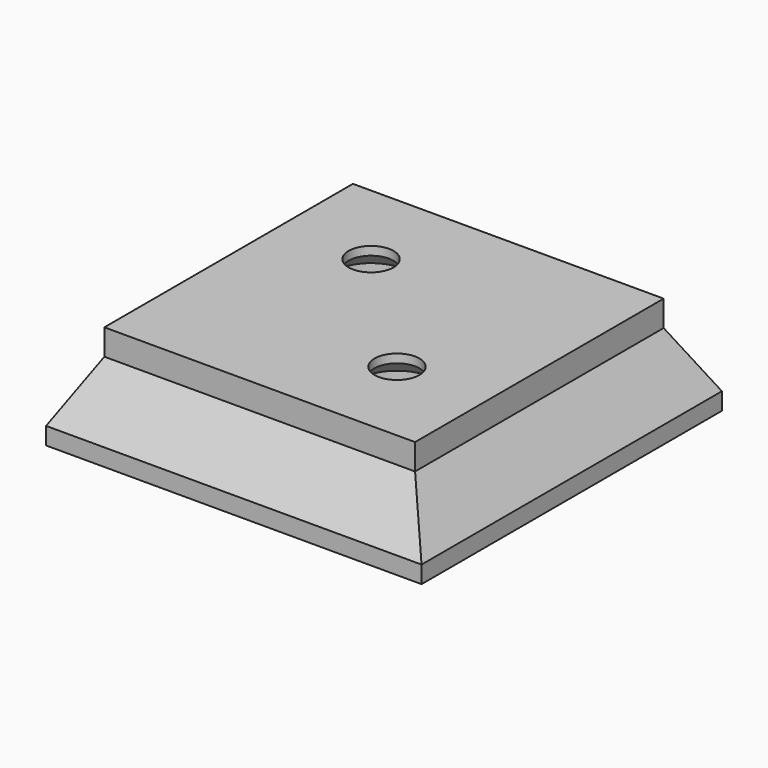
from build123d import *

# Parameters (mm, degrees)
SKETCH021_W     = 36
SKETCH021_H     = 36
PAD006_DEPTH    = 3
SKETCH022_W     = 43.5
SKETCH022_H     = 43.5
PAD007_DEPTH    = 8.75
POCKET014_DEPTH = 100
POCKET015_DEPTH = 100
SKETCH025_W     = 28
SKETCH025_H     = 28
POCKET016_DEPTH = 7.75
SKETCH026_R     = 4.5
POCKET017_DEPTH = 3
SKETCH030_R     = 2.6
POCKET021_DEPTH = 5
CHAMFER003_SIZE = 1.75


with BuildPart() as part:
    # Sketch021 (on Face1 of ShapeBinder003) → Pad006 (new body)
    with BuildSketch(Plane(origin=(0, 0, 0), x_dir=(1, 0, 0), z_dir=(0, 0, -1))):
        with Locations((124, -211)):
            Rectangle(SKETCH021_W, SKETCH021_H)
    extrude(amount=PAD006_DEPTH)

    # Sketch022 (on Face6 of Pad006) → Pad007 (join)
    with BuildSketch(Plane(origin=(0, 0, -3), x_dir=(1, 0, 0), z_dir=(0, 0, -1))):
        with Locations((124, -211)):
            Rectangle(SKETCH022_W, SKETCH022_H)
    extrude(amount=PAD007_DEPTH)

    # Sketch023 (on Face1 of Pad007) → Pocket014 (cut)
    with BuildSketch(Plane.XZ.offset(-189.25)):
        Polygon((106, -3), (102.25, -9.75), (102.25, -3), align=None)
        Polygon((142, -3), (145.75, -9.75), (145.75, -3), align=None)
    extrude(amount=-POCKET014_DEPTH, mode=Mode.SUBTRACT)

    # Sketch024 (on Face7 of Pocket014) → Pocket015 (cut)
    with BuildSketch(Plane(origin=(102.25, 0, 0), x_dir=(0, -1, 0), z_dir=(-1, 0, 0))):
        Polygon((-229, -3), (-232.75, -9.75), (-232.75, -3), align=None)
        Polygon((-193, -3), (-189.25, -3), (-189.25, -9.75), align=None)
    extrude(amount=-POCKET015_DEPTH, mode=Mode.SUBTRACT)

    # Sketch025 (on Face4 of Pocket015) → Pocket016 (cut)
    with BuildSketch(Plane(origin=(0, 0, -11.75), x_dir=(1, 0, 0), z_dir=(0, 0, -1))):
        with Locations((124, -211)):
            Rectangle(SKETCH025_W, SKETCH025_H)
    extrude(amount=-POCKET016_DEPTH, mode=Mode.SUBTRACT)

    # Sketch026 (on Face18 of Pocket016) → Pocket017 (cut)
    with BuildSketch(Plane(origin=(0, 0, -4), x_dir=(1, 0, 0), z_dir=(0, 0, -1))):
        with Locations((116.5, -218.5)):
            Circle(SKETCH026_R)
        with Locations((131.5, -203.5)):
            Circle(SKETCH026_R)
    extrude(amount=-POCKET017_DEPTH, mode=Mode.SUBTRACT)

    # Sketch030 (on Face18 of Pocket017) → Pocket021 (cut)
    with BuildSketch(Plane(origin=(0, 0, -4), x_dir=(1, 0, 0), z_dir=(0, 0, -1))):
        with Locations((116.5, -218.5)):
            Circle(SKETCH030_R)
        with Locations((131.5, -203.5)):
            Circle(SKETCH030_R)
    extrude(amount=-POCKET021_DEPTH, mode=Mode.SUBTRACT)

    # Chamfer003
    chamfer003_edges = [part.edges().sort_by_distance(p)[0] for p in [
        (112, 218.5, -1),
        (127, 203.5, -1),
    ]]
    chamfer(chamfer003_edges, length=CHAMFER003_SIZE)


solid = part.part
